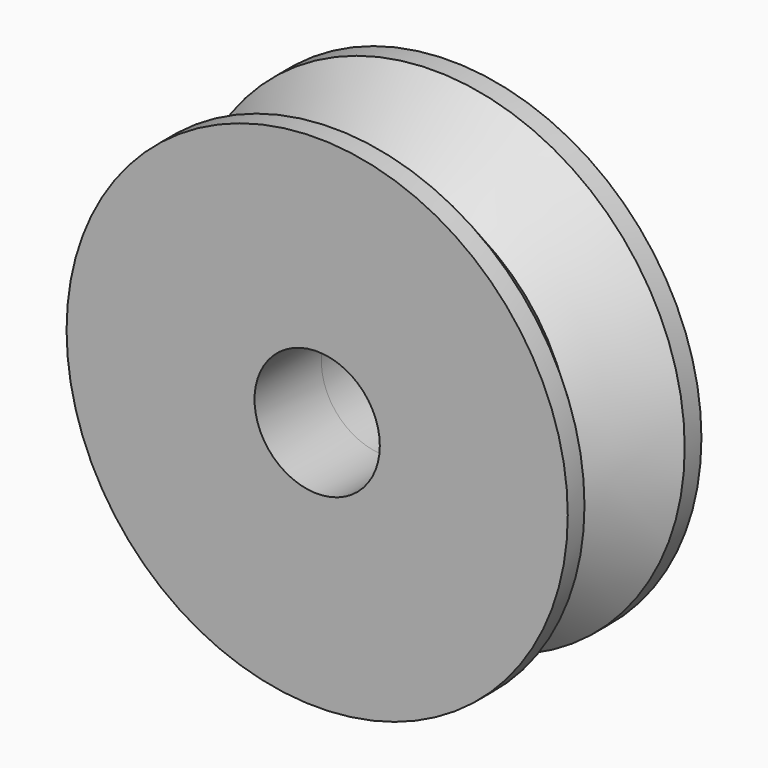
from build123d import *

# Parameters (mm, degrees)
F0_R     = 6
F0_R_2   = 1.5
F1_DEPTH = 2
F2_SIZE  = 1.5


with BuildPart() as f1:
    # F0 (on Front) → F1 (new body)
    with BuildSketch(Plane.XZ):
        Circle(F0_R)
        Circle(F0_R_2, mode=Mode.SUBTRACT)
    extrude(amount=F1_DEPTH)

    # F2
    f2_edges = [f1.edges().sort_by_distance(p)[0] for p in [
        (-6, 0, 0),
    ]]
    chamfer(f2_edges, length=F2_SIZE)

    # F3: F1 across plane


with BuildPart() as f1_1:
    add(f1.part)
    add(f1.part.mirror(Plane.XZ))


solid = f1_1.part
